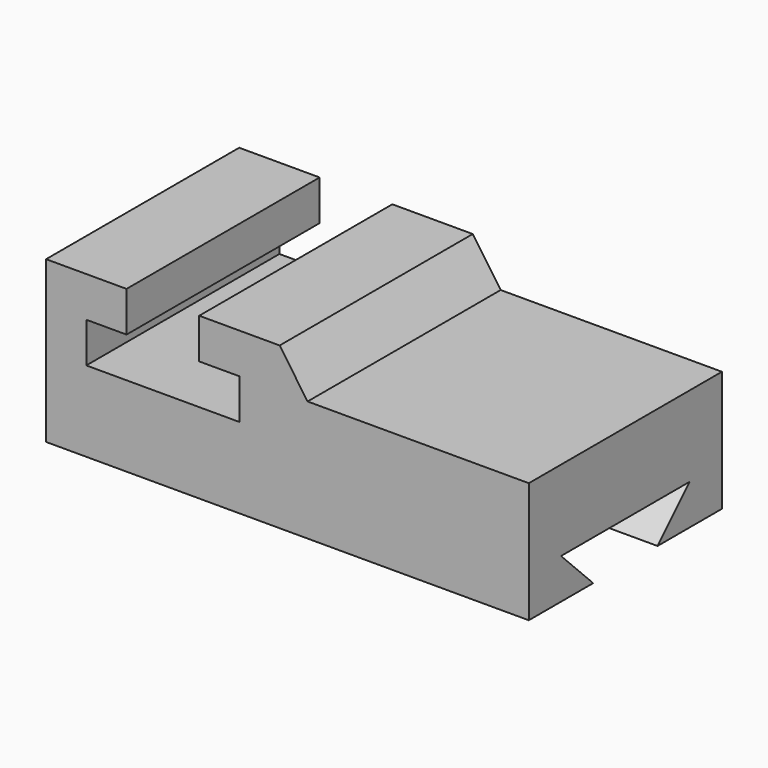
from build123d import *

# Parameters (mm, degrees)
F1_DEPTH = 76.2
F3_DEPTH = 152.4


with BuildPart() as f1:
    # F0 (on Front) → F1 (new body)
    with BuildSketch(Plane.XZ):
        Polygon((0, 50.8), (0, 0), (152.4, 0), (152.4, 38.1), (82.55, 38.1), (73.740794, 50.8), (48.340794, 50.8), (48.340794, 38.1), (61.040794, 38.1), (61.040794, 25.4), (12.7, 25.4), (12.7, 38.1), (25.4, 38.1), (25.4, 50.8), align=None)
    extrude(amount=-F1_DEPTH)

    # F2 (on face) → F3 (cut)
    with BuildSketch(Plane.YZ.offset(152.4)):
        Polygon((12.7, 12.7), (25.4, 0), (50.8, 0), (63.5, 12.7), align=None)
    extrude(amount=-F3_DEPTH, mode=Mode.SUBTRACT)


solid = f1.part
